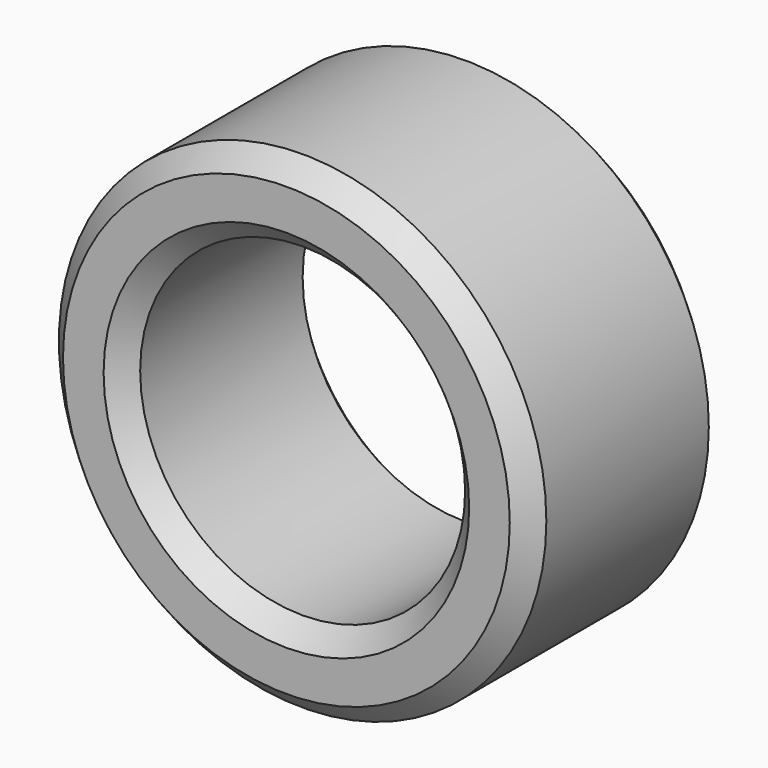
from build123d import *

# Parameters (mm, degrees)
F0_R     = 6
F0_R_2   = 4
F1_DEPTH = 6
F2_SIZE  = 0.5


with BuildPart() as f1:
    # F0 (on Front) → F1 (new body)
    with BuildSketch(Plane.XZ):
        Circle(F0_R)
        Circle(F0_R_2, mode=Mode.SUBTRACT)
    extrude(amount=F1_DEPTH)

    # F2
    f2_edges = [f1.edges().sort_by_distance(p)[0] for p in [
        (-4, 0, 0),
        (-6, 0, 0),
        (-4, -6, 0),
        (6, -3, 0),
        (-6, -6, 0),
    ]]
    chamfer(f2_edges, length=F2_SIZE)


solid = f1.part
